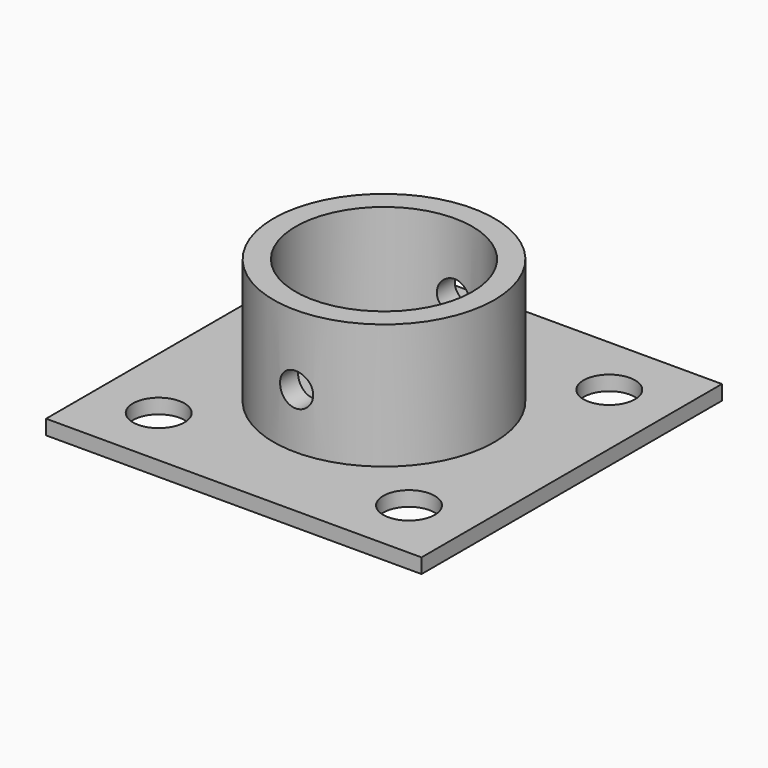
from build123d import *

# Parameters (mm, degrees)
F0_W     = 51
F0_H     = 51
F0_R     = 3.5
F1_DEPTH = 2
F2_R     = 15
F2_R_2   = 12
F3_DEPTH = 17
F4_W     = 51
F4_H     = 2.453923
F5_DEPTH = 17
F6_R     = 2.25
F7_DEPTH = 51.001
F8_W     = 51
F8_H     = 2.453923
F9_DEPTH = 17


with BuildPart() as f1:
    # F0 (on Top) → F1 (new body)
    with BuildSketch(Plane.XY):
        with Locations((-30.284861, 20.886204)):
            Rectangle(F0_W, F0_H)
        with Locations((-47.284861, 3.886204)):
            Circle(F0_R, mode=Mode.SUBTRACT)
        with Locations((-13.284861, 3.886204)):
            Circle(F0_R, mode=Mode.SUBTRACT)
        with Locations((-47.284861, 37.886204)):
            Circle(F0_R, mode=Mode.SUBTRACT)
        with Locations((-13.284861, 37.886204)):
            Circle(F0_R, mode=Mode.SUBTRACT)
    extrude(amount=F1_DEPTH)

    # F2 (on face) → F3 (join)
    with BuildSketch(Plane.XY.offset(2)):
        with Locations((-30.284861, 20.886204)):
            Circle(F2_R)
        with Locations((-30.284861, 20.886204)):
            Circle(F2_R_2, mode=Mode.SUBTRACT)
    extrude(amount=F3_DEPTH)

    # F4 (on face) → F5 (join)
    with BuildSketch(Plane.XY.offset(2)):
        with Locations((-30.284861, -3.386834)):
            Rectangle(F4_W, F4_H)
    extrude(amount=F5_DEPTH)

    # F6 (on face) → F7 (cut, through all)
    with BuildSketch(Plane.XZ.offset(4.613796)):
        with Locations((-30.284861, 9.5)):
            Circle(F6_R)
    extrude(amount=-F7_DEPTH, mode=Mode.SUBTRACT)

    # F8 (on face) → F9 (cut)
    with BuildSketch(Plane.XY.offset(19)):
        with Locations((-30.284861, -3.386834)):
            Rectangle(F8_W, F8_H)
    extrude(amount=-F9_DEPTH, mode=Mode.SUBTRACT)


solid = f1.part
